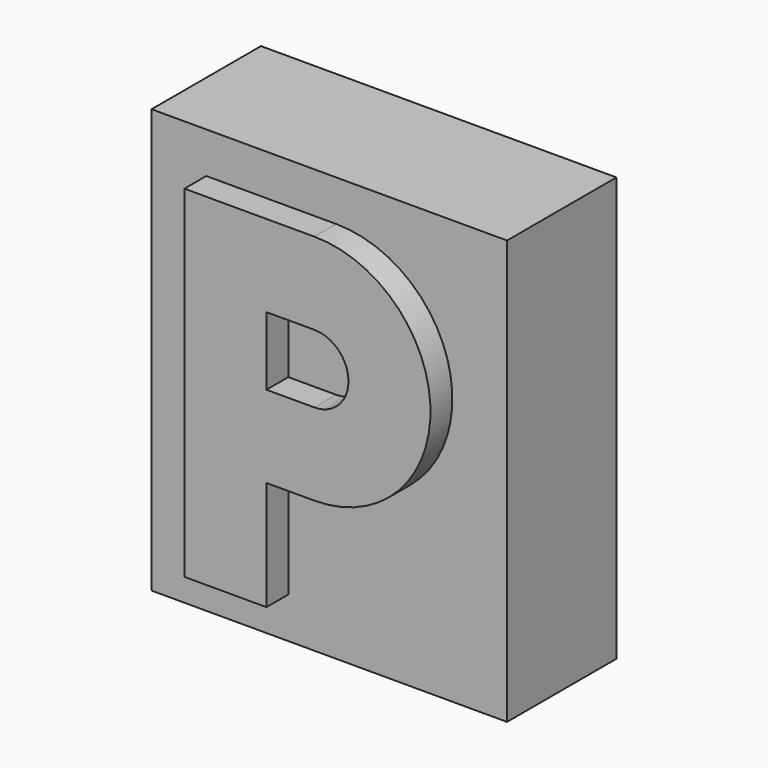
from build123d import *

# Parameters (mm, degrees)
F0_W     = 26
F0_H     = 10
F1_DEPTH = 30
F2_W     = 26
F2_H     = 10
F2_W_2   = 24
F2_H_2   = 8
F3_DEPTH = 1
F5_DEPTH = 2


with BuildPart() as f1:
    # F0 (on Top) → F1 (new body)
    with BuildSketch(Plane.XY):
        Rectangle(F0_W, F0_H)
    extrude(amount=F1_DEPTH)

    # F2 (on face) → F3 (join)
    with BuildSketch(Plane(origin=(0, 0, 0), x_dir=(1, 0, 0), z_dir=(0, 0, -1))):
        Rectangle(F2_W, F2_H)
        Rectangle(F2_W_2, F2_H_2, mode=Mode.SUBTRACT)
    extrude(amount=F3_DEPTH)

    # F4 (on face) → F5 (join)
    with BuildSketch(Plane.XZ.offset(5)):
        with BuildLine():
            Line((-3, 27), (-9, 27))
            Line((-9, 27), (-9, 2))
            Line((-9, 2), (-3, 2))
            Line((-3, 2), (-3, 10))
            Line((-3, 10), (0.5, 10))
            ThreePointArc((0.5, 10), (9, 18.5), (0.5, 27))
            Line((0.5, 27), (-3, 27))
        make_face()
        with BuildLine():
            Line((-3, 16), (-3, 21))
            Line((-3, 21), (0.5, 21))
            ThreePointArc((0.5, 21), (3, 18.5), (0.5, 16))
            Line((0.5, 16), (-3, 16))
        make_face(mode=Mode.SUBTRACT)
    extrude(amount=F5_DEPTH)


solid = f1.part
